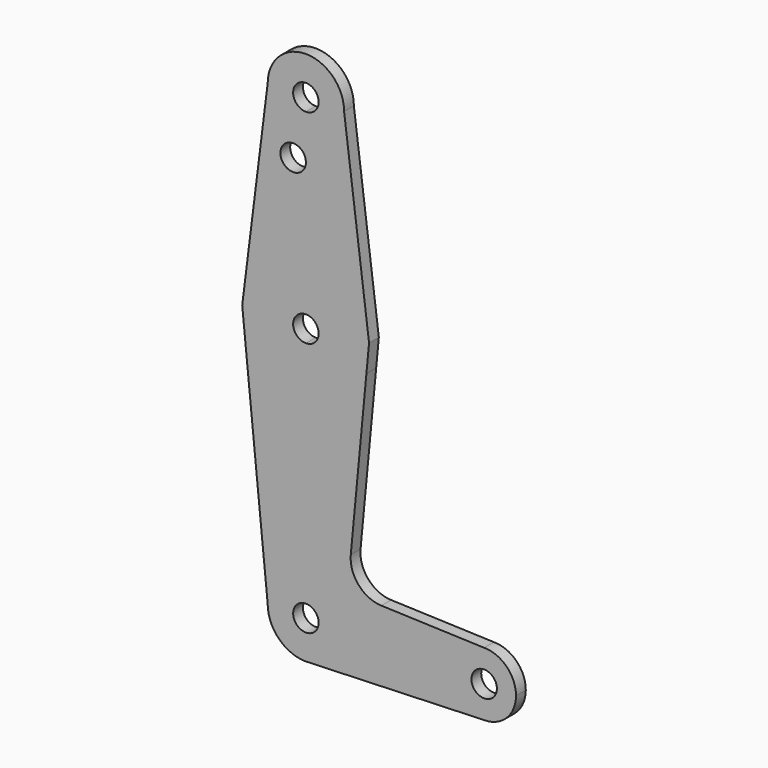
from build123d import *

# Parameters (mm, degrees)
F0_R     = 3.175
F1_DEPTH = 3.048


with BuildPart() as f1:
    # F0 (on Front) → F1 (new body)
    with BuildSketch(Plane.XZ):
        with BuildLine():
            ThreePointArc((0, 104.775), (6.7351920908, 107.5648079092), (9.525, 114.3))
            ThreePointArc((9.525, 114.3), (0, 123.825), (-9.525, 114.3))
            ThreePointArc((-9.525, 114.3), (-6.7351920908, 107.5648079092), (0, 104.775))
        make_face()
        with BuildLine():
            ThreePointArc((3.175, 114.3), (2.2450640303, 112.0549359697), (0, 111.125))
            ThreePointArc((0, 111.125), (-2.2450640303, 116.5450640303), (3.175, 114.3))
        make_face(mode=Mode.SUBTRACT)
        with BuildLine():
            ThreePointArc((0, 79.375), (10.4912828548, 75.4142187767), (15.7474569047, 65.5082893304))
            Line((15.7474569047, 65.5082893304), (9.525, 114.3))
            ThreePointArc((9.525, 114.3), (6.7351920908, 107.5648079092), (0, 104.775))
            Line((0, 104.775), (0, 100.0252))
            Line((0, 100.0252), (0, 79.375))
        make_face()
        with BuildLine():
            ThreePointArc((-15.3865384615, 67.4076923077), (-9.7463072395, 76.0309664508), (0, 79.375))
            Line((0, 79.375), (0, 100.0252))
            Line((0, 100.0252), (0, 104.775))
            ThreePointArc((0, 104.775), (-6.7351920908, 107.5648079092), (-9.525, 114.3))
            Line((-9.525, 114.3), (-15.3865384615, 67.4076923077))
        make_face()
        with Locations((-3.175, 100.0252)):
            Circle(F0_R, mode=Mode.SUBTRACT)
        with BuildLine():
            ThreePointArc((-15.5606435644, 60.3564356436), (-10.0526499203, 51.2134278751), (0, 47.625))
            Line((0, 47.625), (0, 60.325))
            ThreePointArc((0, 60.325), (-3.175, 63.5), (0, 66.675))
            Line((0, 66.675), (0, 79.375))
            ThreePointArc((0, 79.375), (-9.7463072395, 76.0309664508), (-15.3865384615, 67.4076923077))
            Line((-15.3865384615, 67.4076923077), (-15.875, 63.5))
            Line((-15.875, 63.5), (-15.5606435644, 60.3564356436))
        make_face()
        with BuildLine():
            Line((0, 60.325), (0, 47.625))
            ThreePointArc((0, 47.625), (9.3176428807, 50.6470954198), (15.0877196672, 58.5627598555))
            Line((15.0877196672, 58.5627598555), (15.7474569047, 65.5082893304))
            ThreePointArc((15.7474569047, 65.5082893304), (10.4912828548, 75.4142187767), (0, 79.375))
            Line((0, 79.375), (0, 66.675))
            ThreePointArc((0, 66.675), (2.2450640303, 65.7450640303), (3.175, 63.5))
            ThreePointArc((3.175, 63.5), (2.2450640303, 61.2549359697), (0, 60.325))
        make_face()
        with BuildLine():
            Line((0, 47.625), (0, 9.525))
            ThreePointArc((0, 9.525), (6.7351920908, 6.7351920908), (9.525, 0))
            Line((9.525, 0), (36.5125, 0))
            ThreePointArc((36.5125, 0), (38.8373399243, 5.6126600757), (44.45, 7.9375))
            Line((44.45, 7.9375), (18.8228170321, 8.8527565346))
            ThreePointArc((18.8228170321, 8.8527565346), (13.130598856, 11.5544736108), (11.1919966494, 17.549675393))
            Line((11.1919966494, 17.549675393), (15.0877196672, 58.5627598555))
            ThreePointArc((15.0877196672, 58.5627598555), (9.3176428807, 50.6470954198), (0, 47.625))
        make_face()
        with BuildLine():
            ThreePointArc((-9.525, 0), (-6.7351920908, 6.7351920908), (0, 9.525))
            Line((0, 9.525), (0, 47.625))
            ThreePointArc((0, 47.625), (-10.0526499203, 51.2134278751), (-15.5606435644, 60.3564356436))
            Line((-15.5606435644, 60.3564356436), (-9.525, 0))
        make_face()
        with BuildLine():
            Line((0, 9.525), (0, 3.175))
            ThreePointArc((0, 3.175), (2.2450640303, 2.2450640303), (3.175, 0))
            Line((3.175, 0), (9.525, 0))
            ThreePointArc((9.525, 0), (6.7351920908, 6.7351920908), (0, 9.525))
        make_face()
        with BuildLine():
            Line((36.5125, 0), (9.525, 0))
            ThreePointArc((9.525, 0), (6.9712901065, -6.4905114784), (0.6794904459, -9.5007324841))
            Line((0.6794904459, -9.5007324841), (44.45, -7.9375))
            ThreePointArc((44.45, -7.9375), (38.8373399243, -5.6126600757), (36.5125, 0))
        make_face()
        with BuildLine():
            ThreePointArc((3.175, 0), (-2.2450640303, -2.2450640303), (0, 3.175))
            Line((0, 3.175), (0, 9.525))
            ThreePointArc((0, 9.525), (-6.7351920908, 6.7351920908), (-9.525, 0))
            ThreePointArc((-9.525, 0), (-6.7351920908, -6.7351920908), (0, -9.525))
            Line((0, -9.525), (0.6794904459, -9.5007324841))
            ThreePointArc((0.6794904459, -9.5007324841), (6.9712901065, -6.4905114784), (9.525, 0))
            Line((9.525, 0), (3.175, 0))
        make_face()
        with BuildLine():
            ThreePointArc((44.45, 7.9375), (38.8373399243, 5.6126600757), (36.5125, 0))
            ThreePointArc((36.5125, 0), (38.8373399243, -5.6126600757), (44.45, -7.9375))
            ThreePointArc((44.45, -7.9375), (50.0626600757, -5.6126600757), (52.3875, 0))
            ThreePointArc((52.3875, 0), (50.0626600757, 5.6126600757), (44.45, 7.9375))
        make_face()
        with BuildLine():
            ThreePointArc((47.625, 0), (44.45, -3.175), (41.275, 0))
            ThreePointArc((41.275, 0), (44.45, 3.175), (47.625, 0))
        make_face(mode=Mode.SUBTRACT)
    extrude(amount=F1_DEPTH)


solid = f1.part
